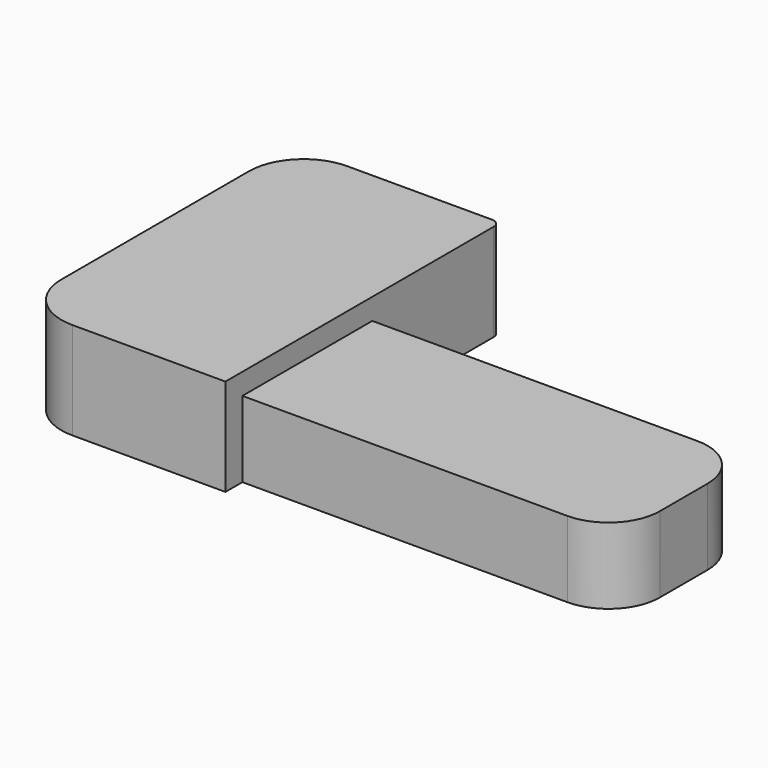
from build123d import *

# Parameters (mm, degrees)
F2_DEPTH = 5.68
F3_DEPTH = 4.44


with BuildPart() as f2:
    # F1 (on Top) → F2 (new body)
    with BuildSketch(Plane.XY):
        with BuildLine():
            ThreePointArc((0, 3.2), (0.9372583002, 0.9372583002), (3.2, 0))
            Line((3.2, 0), (12.15, 0))
            Line((12.15, 0), (12.15, 1.24))
            Line((12.15, 1.24), (12.15, 10.73))
            Line((12.15, 10.73), (12.15, 19.6))
            ThreePointArc((12.15, 19.6), (12.0035533906, 19.9535533906), (11.65, 20.1))
            Line((11.65, 20.1), (3.2, 20.1))
            ThreePointArc((3.2, 20.1), (0.9372583002, 19.1627416998), (0, 16.9))
            Line((0, 16.9), (0, 3.2))
        make_face()
    extrude(amount=F2_DEPTH)

    # F1 (on Top) → F3 (join)
    with BuildSketch(Plane.XY):
        with BuildLine():
            Line((12.15, 10.73), (12.15, 1.24))
            Line((12.15, 1.24), (31.15, 1.24))
            ThreePointArc((31.15, 1.24), (33.2713203436, 2.1186796564), (34.15, 4.24))
            Line((34.15, 4.24), (34.15, 7.73))
            ThreePointArc((34.15, 7.73), (33.2713203436, 9.8513203436), (31.15, 10.73))
            Line((31.15, 10.73), (12.15, 10.73))
        make_face()
    extrude(amount=F3_DEPTH)


solid = f2.part
